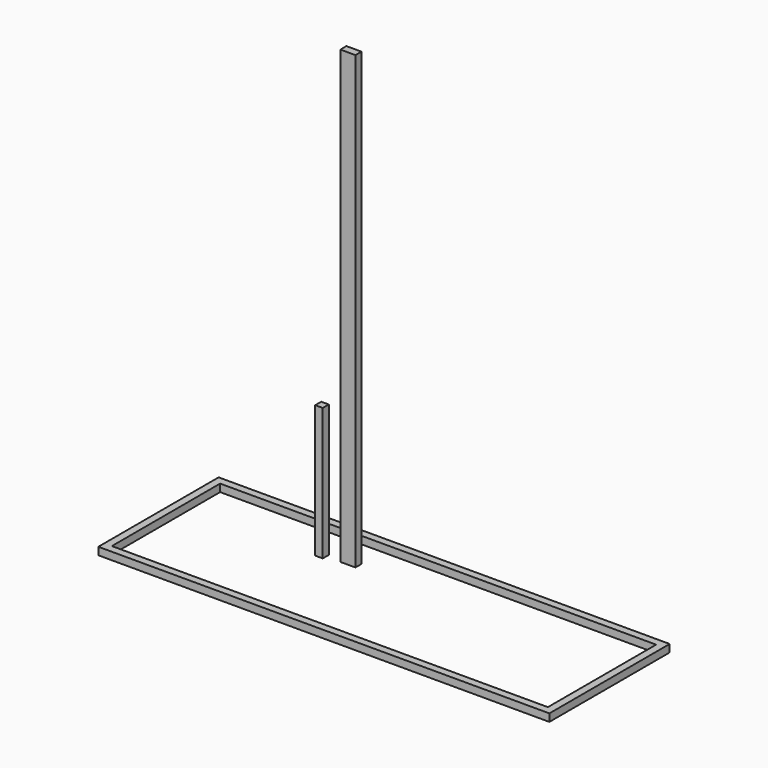
from build123d import *

# Parameters (mm, degrees)
F0_W     = 2400
F0_H     = 800
F0_W_2   = 2320
F0_H_2   = 720
F1_DEPTH = 40
F2_W     = 40
F2_H     = 40
F3_DEPTH = 705
F4_W     = 80
F4_H     = 40
F5_DEPTH = 2400


with BuildPart() as f1:
    # F0 (on Top) → F1 (new body)
    with BuildSketch(Plane.XY):
        with Locations((-1090.395872, -221.42356)):
            Rectangle(F0_W, F0_H)
        with Locations((-1090.395872, -221.42356)):
            Rectangle(F0_W_2, F0_H_2, mode=Mode.SUBTRACT)
    extrude(amount=F1_DEPTH)


with BuildPart() as f3:
    # F2 (on Top) → F3 (new body)
    with BuildSketch(Plane.XY):
        with Locations((-1564.549923, -41.151882)):
            Rectangle(F2_W, F2_H)
    extrude(amount=F3_DEPTH)


with BuildPart() as f5:
    # F4 (on Top) → F5 (new body)
    with BuildSketch(Plane.XY):
        with Locations((-1427.817225, -19.825992)):
            Rectangle(F4_W, F4_H)
    extrude(amount=F5_DEPTH)


solid = Compound([f1.part, f3.part, f5.part])
